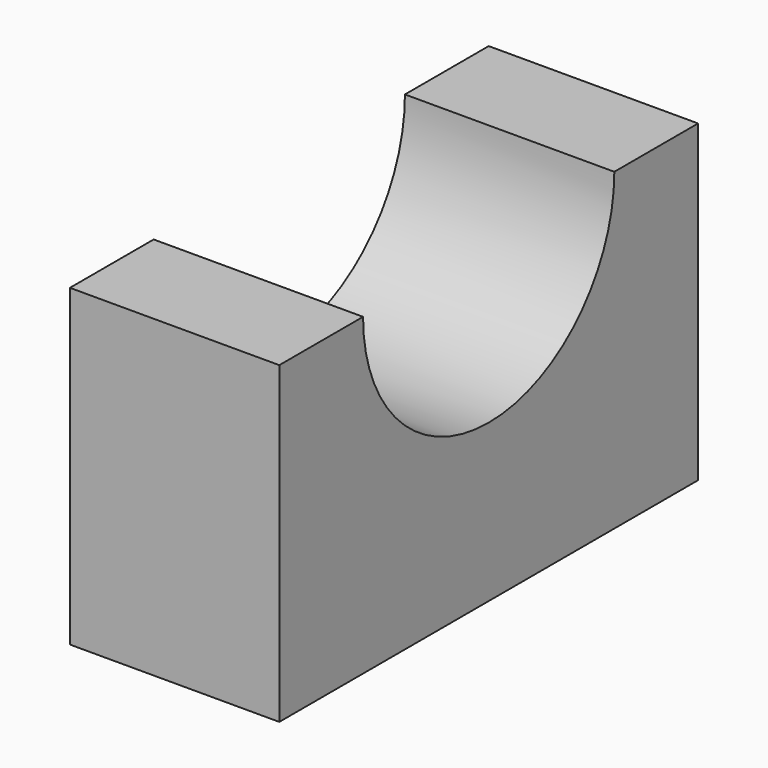
from build123d import *

# Parameters (mm, degrees)
F0_W     = 25.4
F0_H     = 38.1
F1_DEPTH = 63.5
F3_DEPTH = 25.4


with BuildPart() as f1:
    # F0 (on Front) → F1 (new body)
    with BuildSketch(Plane.XZ):
        with Locations((12.7, 19.05)):
            Rectangle(F0_W, F0_H)
    extrude(amount=F1_DEPTH)

    # F2 (on face) → F3 (cut)
    with BuildSketch(Plane(origin=(0, 0, 0), x_dir=(0, -1, 0), z_dir=(-1, 0, 0))):
        with BuildLine():
            ThreePointArc((12.7, 38.1), (31.75, 19.05), (50.8, 38.1))
            Line((50.8, 38.1), (12.7, 38.1))
        make_face()
    extrude(amount=-F3_DEPTH, mode=Mode.SUBTRACT)


solid = f1.part
